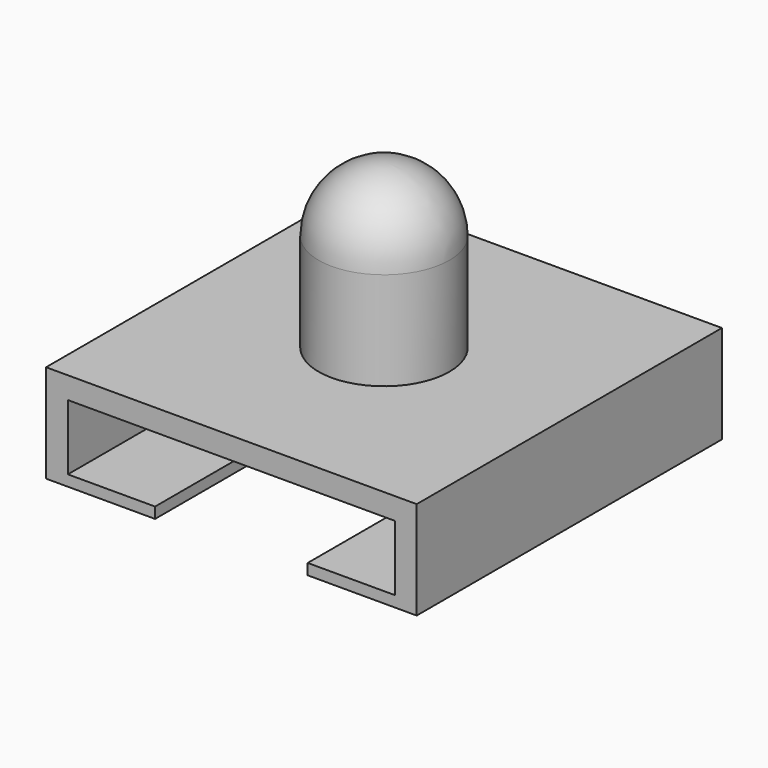
from build123d import *

# Parameters (mm, degrees)
F0_W     = 34
F0_H     = 35
F1_DEPTH = 9
F3_DEPTH = 56.9500997663
F4_W     = 6
F4_H     = 9


with BuildPart() as f1:
    # F0 (on Top) → F1 (new body)
    with BuildSketch(Plane.XY):
        Rectangle(F0_W, F0_H)
    extrude(amount=F1_DEPTH)

    # F2 (on face) → F3 (cut)
    with BuildSketch(Plane.XZ.offset(17.5)):
        Polygon((-7, 1), (-7, 0), (0, 0), (0, 7), (-15, 7), (-15, 1), align=None)
        Polygon((0, 7), (0, 0), (7, 0), (7, 1), (15, 1), (15, 7), align=None)
    extrude(amount=-F3_DEPTH, mode=Mode.SUBTRACT)

    # F4 (on Front) → F6 (revolve)
    with BuildSketch(Plane.XZ):
        with Locations((3, 13.5)):
            Rectangle(F4_W, F4_H)
        with BuildLine():
            Line((0, 18), (6, 18))
            ThreePointArc((6, 18), (4.2426406871, 22.2426406871), (0, 24))
            Line((0, 24), (0, 18))
        make_face()
    revolve(axis=Axis((0, 0, 0), (0, 0, 1)))


solid = f1.part
